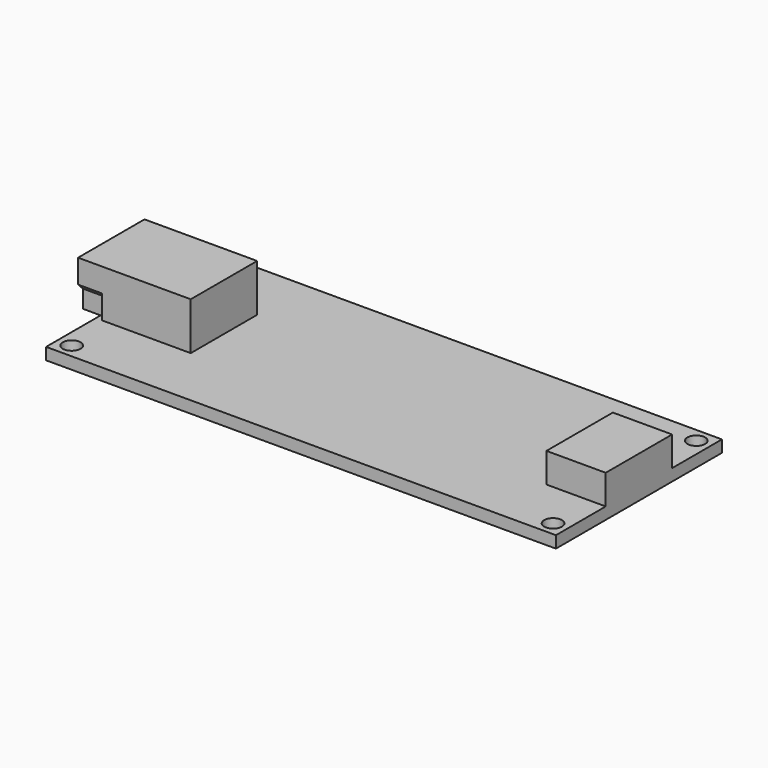
from build123d import *

# Parameters (mm, degrees)
F0_W     = 8
F0_H     = 7
F0_R     = 0.75
F0_W_2   = 5
F1_DEPTH = 1
F0_W_3   = 1.5
F2_DEPTH = 4
F3_DEPTH = 2.5
F4_W     = 4.784234
F4_H     = 1.5
F5_DEPTH = 5
F6_DEPTH = 2
F7_SIZE  = 0.4


with BuildPart() as f1:
    # F0 (on Top) → F1 (new body)
    with BuildSketch(Plane.XY):
        with Locations((-17.5, 0)):
            Rectangle(F0_W, F0_H)
        Polygon((21.5, 3.5), (21.5, 8.75), (-21.5, 8.75), (-21.5, 3.5), (-13.5, 3.5), (-13.5, -3.5), (-21.5, -3.5), (-21.5, -8.75), (21.5, -8.75), (21.5, -3.5), (16.5, -3.5), (16.5, 3.5), align=None)
        with Locations((-20.3, -7.55)):
            Circle(F0_R, mode=Mode.SUBTRACT)
        with Locations((20.3, -7.55)):
            Circle(F0_R, mode=Mode.SUBTRACT)
        with Locations((-20.3, 7.55)):
            Circle(F0_R, mode=Mode.SUBTRACT)
        with Locations((20.3, 7.55)):
            Circle(F0_R, mode=Mode.SUBTRACT)
        with Locations((19, 0)):
            Rectangle(F0_W_2, F0_H)
    extrude(amount=-F1_DEPTH)

    # F0 (on Top) → F2 (join)
    with BuildSketch(Plane.XY):
        with Locations((-22.25, 0)):
            Rectangle(F0_W_3, F0_H)
        with Locations((-17.5, 0)):
            Rectangle(F0_W, F0_H)
    extrude(amount=F2_DEPTH)

    # F0 (on Top) → F3 (join)
    with BuildSketch(Plane.XY):
        with Locations((19, 0)):
            Rectangle(F0_W_2, F0_H)
    extrude(amount=F3_DEPTH)

    # F4 (on face) → F5 (cut)
    with BuildSketch(Plane(origin=(-23, 0, 0), x_dir=(0, -1, 0), z_dir=(-1, 0, 0))):
        Polygon((3.4, 3.9), (-3.4, 3.9), (-3.4, 2.041421), (-2.9, 1.541421), (-2.9, 0.1), (2.9, 0.1), (2.9, 1.541421), (3.4, 2.041421), align=None)
        with Locations((0, 2.25)):
            Rectangle(F4_W, F4_H, mode=Mode.SUBTRACT)
    extrude(amount=-F5_DEPTH, mode=Mode.SUBTRACT)

    # F4 (on face) → F6 (cut)
    with BuildSketch(Plane(origin=(-23, 0, 0), x_dir=(0, -1, 0), z_dir=(-1, 0, 0))):
        Polygon((-3, 1.5), (-3.5, 2), (-3.5, 0), (-3, 0), align=None)
        Polygon((3, 1.5), (3, 0), (3.5, 0), (3.5, 2), align=None)
    extrude(amount=-F6_DEPTH, mode=Mode.SUBTRACT)

    # F7
    f7_edges = [f1.edges().sort_by_distance(p)[0] for p in [
        (-20.5, -2.392117, 1.5),
        (-20.5, 2.392117, 1.5),
    ]]
    chamfer(f7_edges, length=F7_SIZE)


solid = f1.part
